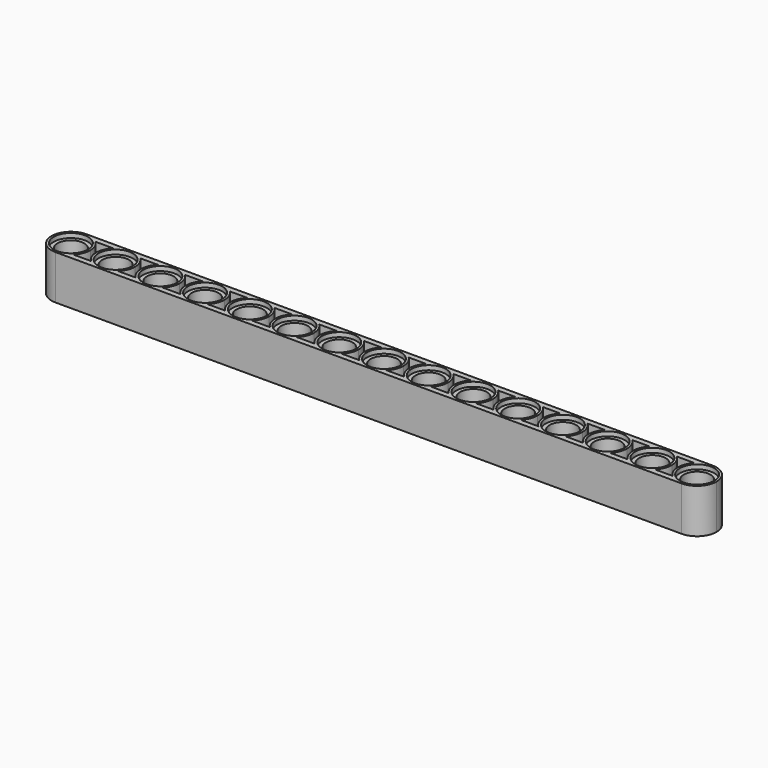
from build123d import *

# Parameters (mm, degrees)
F0_R     = 2.4
F1_DEPTH = 8
F2_R     = 3.1
F2_R_2   = 2.4
F3_DEPTH = 0.8
F4_R     = 3.1
F4_R_2   = 2.4
F5_DEPTH = 0.8
F7_DEPTH = 3.5
F9_DEPTH = 3.5


with BuildPart() as f1:
    # F0 (on Top) → F1 (new body)
    with BuildSketch(Plane.XY):
        with BuildLine():
            Line((88.9163903594, -14.5204573274), (-24.0836096406, -14.5204573274))
            ThreePointArc((-24.0836096406, -14.5204573274), (-26.5584833748, -15.5455835932), (-27.5836096406, -18.0204573274))
            ThreePointArc((-27.5836096406, -18.0204573274), (-26.5584833748, -20.4953310615), (-24.0836096406, -21.5204573274))
            Line((-24.0836096406, -21.5204573274), (-16.0121810692, -21.5204573274))
            Line((-16.0121810692, -21.5204573274), (-7.9407524978, -21.5204573274))
            Line((-7.9407524978, -21.5204573274), (0.1306760736, -21.5204573274))
            Line((0.1306760736, -21.5204573274), (8.202104645, -21.5204573274))
            Line((8.202104645, -21.5204573274), (16.2735332164, -21.5204573274))
            Line((16.2735332164, -21.5204573274), (32.4163903592, -21.5204573274))
            Line((32.4163903592, -21.5204573274), (40.4878189306, -21.5204573274))
            Line((40.4878189306, -21.5204573274), (48.559247502, -21.5204573274))
            Line((48.559247502, -21.5204573274), (56.6306760734, -21.5204573274))
            Line((56.6306760734, -21.5204573274), (64.7021046448, -21.5204573274))
            Line((64.7021046448, -21.5204573274), (72.7735332162, -21.5204573274))
            Line((72.7735332162, -21.5204573274), (80.8449617876, -21.5204573274))
            Line((80.8449617876, -21.5204573274), (88.9163903594, -21.5204573274))
            ThreePointArc((88.9163903594, -21.5204573274), (91.3912640936, -20.4953310615), (92.4163903594, -18.0204573274))
            ThreePointArc((92.4163903594, -18.0204573274), (91.3912640936, -15.5455835932), (88.9163903594, -14.5204573274))
        make_face()
        with Locations((-24.0836096406, -18.0204573274)):
            Circle(F0_R, mode=Mode.SUBTRACT)
        with Locations((-16.0121810692, -18.0204573274)):
            Circle(F0_R, mode=Mode.SUBTRACT)
        with Locations((-7.9407524978, -18.0204573274)):
            Circle(F0_R, mode=Mode.SUBTRACT)
        with Locations((0.1306760736, -18.0204573274)):
            Circle(F0_R, mode=Mode.SUBTRACT)
        with Locations((8.202104645, -18.0204573274)):
            Circle(F0_R, mode=Mode.SUBTRACT)
        with Locations((16.2735332164, -18.0204573274)):
            Circle(F0_R, mode=Mode.SUBTRACT)
        with Locations((24.3449617878, -18.0204573274)):
            Circle(F0_R, mode=Mode.SUBTRACT)
        with Locations((32.4163903592, -18.0204573274)):
            Circle(F0_R, mode=Mode.SUBTRACT)
        with Locations((40.4878189306, -18.0204573274)):
            Circle(F0_R, mode=Mode.SUBTRACT)
        with Locations((48.559247502, -18.0204573274)):
            Circle(F0_R, mode=Mode.SUBTRACT)
        with Locations((56.6306760734, -18.0204573274)):
            Circle(F0_R, mode=Mode.SUBTRACT)
        with Locations((64.7021046448, -18.0204573274)):
            Circle(F0_R, mode=Mode.SUBTRACT)
        with Locations((72.7735332162, -18.0204573274)):
            Circle(F0_R, mode=Mode.SUBTRACT)
        with Locations((80.8449617876, -18.0204573274)):
            Circle(F0_R, mode=Mode.SUBTRACT)
        with Locations((88.916390359, -18.0204573274)):
            Circle(F0_R, mode=Mode.SUBTRACT)
    extrude(amount=F1_DEPTH)

    # F2 (on face) → F3 (cut)
    with BuildSketch(Plane.XY.offset(8)):
        with Locations((88.916390359, -18.0204573274)):
            Circle(F2_R)
        with Locations((88.916390359, -18.0204573274)):
            Circle(F2_R_2, mode=Mode.SUBTRACT)
        with Locations((80.8449617876, -18.0204573274)):
            Circle(F2_R)
        with Locations((80.8449617876, -18.0204573274)):
            Circle(F2_R_2, mode=Mode.SUBTRACT)
        with Locations((72.7735332162, -18.0204573274)):
            Circle(F2_R)
        with Locations((72.7735332162, -18.0204573274)):
            Circle(F2_R_2, mode=Mode.SUBTRACT)
        with Locations((64.7021046448, -18.0204573274)):
            Circle(F2_R)
        with Locations((64.7021046448, -18.0204573274)):
            Circle(F2_R_2, mode=Mode.SUBTRACT)
        with Locations((56.6306760734, -18.0204573274)):
            Circle(F2_R)
        with Locations((56.6306760734, -18.0204573274)):
            Circle(F2_R_2, mode=Mode.SUBTRACT)
        with Locations((48.559247502, -18.0204573274)):
            Circle(F2_R)
        with Locations((48.559247502, -18.0204573274)):
            Circle(F2_R_2, mode=Mode.SUBTRACT)
        with Locations((40.4878189306, -18.0204573274)):
            Circle(F2_R)
        with Locations((40.4878189306, -18.0204573274)):
            Circle(F2_R_2, mode=Mode.SUBTRACT)
        with Locations((32.4163903592, -18.0204573274)):
            Circle(F2_R)
        with Locations((32.4163903592, -18.0204573274)):
            Circle(F2_R_2, mode=Mode.SUBTRACT)
        with Locations((24.3449617878, -18.0204573274)):
            Circle(F2_R)
        with Locations((24.3449617878, -18.0204573274)):
            Circle(F2_R_2, mode=Mode.SUBTRACT)
        with Locations((16.2735332164, -18.0204573274)):
            Circle(F2_R)
        with Locations((16.2735332164, -18.0204573274)):
            Circle(F2_R_2, mode=Mode.SUBTRACT)
        with Locations((8.202104645, -18.0204573274)):
            Circle(F2_R)
        with Locations((8.202104645, -18.0204573274)):
            Circle(F2_R_2, mode=Mode.SUBTRACT)
        with Locations((0.1306760736, -18.0204573274)):
            Circle(F2_R)
        with Locations((0.1306760736, -18.0204573274)):
            Circle(F2_R_2, mode=Mode.SUBTRACT)
        with Locations((-7.9407524978, -18.0204573274)):
            Circle(F2_R)
        with Locations((-7.9407524978, -18.0204573274)):
            Circle(F2_R_2, mode=Mode.SUBTRACT)
        with Locations((-16.0121810692, -18.0204573274)):
            Circle(F2_R)
        with Locations((-16.0121810692, -18.0204573274)):
            Circle(F2_R_2, mode=Mode.SUBTRACT)
        with Locations((-24.0836096406, -18.0204573274)):
            Circle(F2_R)
        with Locations((-24.0836096406, -18.0204573274)):
            Circle(F2_R_2, mode=Mode.SUBTRACT)
    extrude(amount=-F3_DEPTH, mode=Mode.SUBTRACT)

    # F4 (on face) → F5 (cut)
    with BuildSketch(Plane(origin=(0, 0, 0), x_dir=(1, 0, 0), z_dir=(0, 0, -1))):
        with Locations((-24.0836096406, 18.0204573274)):
            Circle(F4_R)
        with Locations((-24.0836096406, 18.0204573274)):
            Circle(F4_R_2, mode=Mode.SUBTRACT)
        with Locations((-16.0121810692, 18.0204573274)):
            Circle(F4_R)
        with Locations((-16.0121810692, 18.0204573274)):
            Circle(F4_R_2, mode=Mode.SUBTRACT)
        with Locations((-7.9407524978, 18.0204573274)):
            Circle(F4_R)
        with Locations((-7.9407524978, 18.0204573274)):
            Circle(F4_R_2, mode=Mode.SUBTRACT)
        with Locations((0.1306760736, 18.0204573274)):
            Circle(F4_R)
        with Locations((0.1306760736, 18.0204573274)):
            Circle(F4_R_2, mode=Mode.SUBTRACT)
        with Locations((8.202104645, 18.0204573274)):
            Circle(F4_R)
        with Locations((8.202104645, 18.0204573274)):
            Circle(F4_R_2, mode=Mode.SUBTRACT)
        with Locations((16.2735332164, 18.0204573274)):
            Circle(F4_R)
        with Locations((16.2735332164, 18.0204573274)):
            Circle(F4_R_2, mode=Mode.SUBTRACT)
        with Locations((24.3449617878, 18.0204573274)):
            Circle(F4_R)
        with Locations((24.3449617878, 18.0204573274)):
            Circle(F4_R_2, mode=Mode.SUBTRACT)
        with Locations((32.4163903592, 18.0204573274)):
            Circle(F4_R)
        with Locations((32.4163903592, 18.0204573274)):
            Circle(F4_R_2, mode=Mode.SUBTRACT)
        with Locations((40.4878189306, 18.0204573274)):
            Circle(F4_R)
        with Locations((40.4878189306, 18.0204573274)):
            Circle(F4_R_2, mode=Mode.SUBTRACT)
        with Locations((48.559247502, 18.0204573274)):
            Circle(F4_R)
        with Locations((48.559247502, 18.0204573274)):
            Circle(F4_R_2, mode=Mode.SUBTRACT)
        with Locations((56.6306760734, 18.0204573274)):
            Circle(F4_R)
        with Locations((56.6306760734, 18.0204573274)):
            Circle(F4_R_2, mode=Mode.SUBTRACT)
        with Locations((64.7021046448, 18.0204573274)):
            Circle(F4_R)
        with Locations((64.7021046448, 18.0204573274)):
            Circle(F4_R_2, mode=Mode.SUBTRACT)
        with Locations((72.7735332162, 18.0204573274)):
            Circle(F4_R)
        with Locations((72.7735332162, 18.0204573274)):
            Circle(F4_R_2, mode=Mode.SUBTRACT)
        with Locations((80.8449617876, 18.0204573274)):
            Circle(F4_R)
        with Locations((80.8449617876, 18.0204573274)):
            Circle(F4_R_2, mode=Mode.SUBTRACT)
        with Locations((88.916390359, 18.0204573274)):
            Circle(F4_R)
        with Locations((88.916390359, 18.0204573274)):
            Circle(F4_R_2, mode=Mode.SUBTRACT)
    extrude(amount=-F5_DEPTH, mode=Mode.SUBTRACT)

    # F6 (on face) → F7 (cut)
    with BuildSketch(Plane(origin=(0, 0, 0), x_dir=(1, 0, 0), z_dir=(0, 0, -1))):
        with BuildLine():
            ThreePointArc((-20.5836096406, 18.0204573274), (-20.9019313253, 16.5620598857), (-21.7989942679, 15.3689421759))
            Line((-21.7989942679, 15.3689421759), (-18.2967964419, 15.3689421759))
            ThreePointArc((-18.2967964419, 15.3689421759), (-19.5121810692, 18.0204573274), (-18.2967964419, 20.6719724789))
            Line((-18.2967964419, 20.6719724789), (-21.7989942679, 20.6719724789))
            ThreePointArc((-21.7989942679, 20.6719724789), (-20.9019313253, 19.478854769), (-20.5836096406, 18.0204573274))
        make_face()
        with BuildLine():
            ThreePointArc((-12.5121810692, 18.0204573274), (-12.8305027539, 16.5620598857), (-13.7275656965, 15.3689421759))
            Line((-13.7275656965, 15.3689421759), (-10.2253678705, 15.3689421759))
            ThreePointArc((-10.2253678705, 15.3689421759), (-11.4407524978, 18.0204573274), (-10.2253678705, 20.6719724789))
            Line((-10.2253678705, 20.6719724789), (-13.7275656965, 20.6719724789))
            ThreePointArc((-13.7275656965, 20.6719724789), (-12.8305027539, 19.478854769), (-12.5121810692, 18.0204573274))
        make_face()
        with BuildLine():
            ThreePointArc((-4.4407524978, 18.0204573274), (-4.7590741825, 16.5620598857), (-5.6561371251, 15.3689421759))
            Line((-5.6561371251, 15.3689421759), (-2.1539392991, 15.3689421759))
            ThreePointArc((-2.1539392991, 15.3689421759), (-3.3693239264, 18.0204573274), (-2.1539392991, 20.6719724789))
            Line((-2.1539392991, 20.6719724789), (-5.6561371251, 20.6719724789))
            ThreePointArc((-5.6561371251, 20.6719724789), (-4.7590741825, 19.478854769), (-4.4407524978, 18.0204573274))
        make_face()
        with BuildLine():
            ThreePointArc((3.6306760736, 18.0204573274), (3.3123543889, 16.5620598857), (2.4152914463, 15.3689421759))
            Line((2.4152914463, 15.3689421759), (5.9174892723, 15.3689421759))
            ThreePointArc((5.9174892723, 15.3689421759), (4.702104645, 18.0204573274), (5.9174892723, 20.6719724789))
            Line((5.9174892723, 20.6719724789), (2.4152914463, 20.6719724789))
            ThreePointArc((2.4152914463, 20.6719724789), (3.3123543889, 19.478854769), (3.6306760736, 18.0204573274))
        make_face()
        with BuildLine():
            ThreePointArc((11.702104645, 18.0204573274), (11.3837829603, 16.5620598857), (10.4867200177, 15.3689421759))
            Line((10.4867200177, 15.3689421759), (13.9889178437, 15.3689421759))
            ThreePointArc((13.9889178437, 15.3689421759), (12.7735332164, 18.0204573274), (13.9889178437, 20.6719724789))
            Line((13.9889178437, 20.6719724789), (10.4867200177, 20.6719724789))
            ThreePointArc((10.4867200177, 20.6719724789), (11.3837829603, 19.478854769), (11.702104645, 18.0204573274))
        make_face()
        with BuildLine():
            ThreePointArc((19.7735332164, 18.0204573274), (19.4552115317, 16.5620598857), (18.5581485891, 15.3689421759))
            Line((18.5581485891, 15.3689421759), (22.0603464151, 15.3689421759))
            ThreePointArc((22.0603464151, 15.3689421759), (20.8449617878, 18.0204573274), (22.0603464151, 20.6719724789))
            Line((22.0603464151, 20.6719724789), (18.5581485891, 20.6719724789))
            ThreePointArc((18.5581485891, 20.6719724789), (19.4552115317, 19.478854769), (19.7735332164, 18.0204573274))
        make_face()
        with BuildLine():
            ThreePointArc((27.8449617878, 18.0204573274), (27.5266401031, 16.5620598857), (26.6295771605, 15.3689421759))
            Line((26.6295771605, 15.3689421759), (30.1317749865, 15.3689421759))
            ThreePointArc((30.1317749865, 15.3689421759), (28.9163903592, 18.0204573274), (30.1317749865, 20.6719724789))
            Line((30.1317749865, 20.6719724789), (26.6295771605, 20.6719724789))
            ThreePointArc((26.6295771605, 20.6719724789), (27.5266401031, 19.478854769), (27.8449617878, 18.0204573274))
        make_face()
        with BuildLine():
            ThreePointArc((35.9163903592, 18.0204573274), (35.5980686745, 16.5620598857), (34.7010057319, 15.3689421759))
            Line((34.7010057319, 15.3689421759), (38.2032035579, 15.3689421759))
            ThreePointArc((38.2032035579, 15.3689421759), (36.9878189306, 18.0204573274), (38.2032035579, 20.6719724789))
            Line((38.2032035579, 20.6719724789), (34.7010057319, 20.6719724789))
            ThreePointArc((34.7010057319, 20.6719724789), (35.5980686745, 19.478854769), (35.9163903592, 18.0204573274))
        make_face()
        with BuildLine():
            ThreePointArc((43.9878189306, 18.0204573274), (43.6694972459, 16.5620598857), (42.7724343033, 15.3689421759))
            Line((42.7724343033, 15.3689421759), (46.2746321293, 15.3689421759))
            ThreePointArc((46.2746321293, 15.3689421759), (45.059247502, 18.0204573274), (46.2746321293, 20.6719724789))
            Line((46.2746321293, 20.6719724789), (42.7724343033, 20.6719724789))
            ThreePointArc((42.7724343033, 20.6719724789), (43.6694972459, 19.478854769), (43.9878189306, 18.0204573274))
        make_face()
        with BuildLine():
            ThreePointArc((52.059247502, 18.0204573274), (51.7409258173, 16.5620598857), (50.8438628747, 15.3689421759))
            Line((50.8438628747, 15.3689421759), (54.3460607007, 15.3689421759))
            ThreePointArc((54.3460607007, 15.3689421759), (53.1306760734, 18.0204573274), (54.3460607007, 20.6719724789))
            Line((54.3460607007, 20.6719724789), (50.8438628747, 20.6719724789))
            ThreePointArc((50.8438628747, 20.6719724789), (51.7409258173, 19.478854769), (52.059247502, 18.0204573274))
        make_face()
        with BuildLine():
            ThreePointArc((60.1306760734, 18.0204573274), (59.8123543887, 16.5620598857), (58.9152914461, 15.3689421759))
            Line((58.9152914461, 15.3689421759), (62.4174892721, 15.3689421759))
            ThreePointArc((62.4174892721, 15.3689421759), (61.2021046448, 18.0204573274), (62.4174892721, 20.6719724789))
            Line((62.4174892721, 20.6719724789), (58.9152914461, 20.6719724789))
            ThreePointArc((58.9152914461, 20.6719724789), (59.8123543887, 19.478854769), (60.1306760734, 18.0204573274))
        make_face()
        with BuildLine():
            ThreePointArc((68.2021046448, 18.0204573274), (67.8837829601, 16.5620598857), (66.9867200175, 15.3689421759))
            Line((66.9867200175, 15.3689421759), (70.4889178435, 15.3689421759))
            ThreePointArc((70.4889178435, 15.3689421759), (69.2735332162, 18.0204573274), (70.4889178435, 20.6719724789))
            Line((70.4889178435, 20.6719724789), (66.9867200175, 20.6719724789))
            ThreePointArc((66.9867200175, 20.6719724789), (67.8837829601, 19.478854769), (68.2021046448, 18.0204573274))
        make_face()
        with BuildLine():
            ThreePointArc((76.2735332162, 18.0204573274), (75.9552115315, 16.5620598857), (75.0581485889, 15.3689421759))
            Line((75.0581485889, 15.3689421759), (78.5603464149, 15.3689421759))
            ThreePointArc((78.5603464149, 15.3689421759), (77.3449617876, 18.0204573274), (78.5603464149, 20.6719724789))
            Line((78.5603464149, 20.6719724789), (75.0581485889, 20.6719724789))
            ThreePointArc((75.0581485889, 20.6719724789), (75.9552115315, 19.478854769), (76.2735332162, 18.0204573274))
        make_face()
        with BuildLine():
            ThreePointArc((84.3449617876, 18.0204573274), (84.0266401029, 16.5620598857), (83.1295771603, 15.3689421759))
            Line((83.1295771603, 15.3689421759), (86.6317749863, 15.3689421759))
            ThreePointArc((86.6317749863, 15.3689421759), (85.416390359, 18.0204573274), (86.6317749863, 20.6719724789))
            Line((86.6317749863, 20.6719724789), (83.1295771603, 20.6719724789))
            ThreePointArc((83.1295771603, 20.6719724789), (84.0266401029, 19.478854769), (84.3449617876, 18.0204573274))
        make_face()
    extrude(amount=-F7_DEPTH, mode=Mode.SUBTRACT)

    # F8 (on face) → F9 (cut)
    with BuildSketch(Plane.XY.offset(8)):
        with BuildLine():
            ThreePointArc((-20.5836096406, -18.0204573274), (-20.8569074464, -19.3763308282), (-21.6341198978, -20.5204573274))
            Line((-21.6341198978, -20.5204573274), (-18.461670812, -20.5204573274))
            ThreePointArc((-18.461670812, -20.5204573274), (-19.5121810692, -18.0204573274), (-18.461670812, -15.5204573274))
            Line((-18.461670812, -15.5204573274), (-21.6341198978, -15.5204573274))
            ThreePointArc((-21.6341198978, -15.5204573274), (-20.8569074464, -16.6645838266), (-20.5836096406, -18.0204573274))
        make_face()
        with BuildLine():
            ThreePointArc((-12.5121810692, -18.0204573274), (-12.785478875, -19.3763308282), (-13.5626913264, -20.5204573274))
            Line((-13.5626913264, -20.5204573274), (-10.3902422406, -20.5204573274))
            ThreePointArc((-10.3902422406, -20.5204573274), (-11.4407524978, -18.0204573274), (-10.3902422406, -15.5204573274))
            Line((-10.3902422406, -15.5204573274), (-13.5626913264, -15.5204573274))
            ThreePointArc((-13.5626913264, -15.5204573274), (-12.785478875, -16.6645838266), (-12.5121810692, -18.0204573274))
        make_face()
        with BuildLine():
            ThreePointArc((-4.4407524978, -18.0204573274), (-4.7140503036, -19.3763308282), (-5.491262755, -20.5204573274))
            Line((-5.491262755, -20.5204573274), (-2.3188136692, -20.5204573274))
            ThreePointArc((-2.3188136692, -20.5204573274), (-3.3693239264, -18.0204573274), (-2.3188136692, -15.5204573274))
            Line((-2.3188136692, -15.5204573274), (-5.491262755, -15.5204573274))
            ThreePointArc((-5.491262755, -15.5204573274), (-4.7140503036, -16.6645838266), (-4.4407524978, -18.0204573274))
        make_face()
        with BuildLine():
            ThreePointArc((3.6306760736, -18.0204573274), (3.3573782678, -19.3763308282), (2.5801658164, -20.5204573274))
            Line((2.5801658164, -20.5204573274), (5.7526149022, -20.5204573274))
            ThreePointArc((5.7526149022, -20.5204573274), (4.702104645, -18.0204573274), (5.7526149022, -15.5204573274))
            Line((5.7526149022, -15.5204573274), (2.5801658164, -15.5204573274))
            ThreePointArc((2.5801658164, -15.5204573274), (3.3573782678, -16.6645838266), (3.6306760736, -18.0204573274))
        make_face()
        with BuildLine():
            ThreePointArc((11.702104645, -18.0204573274), (11.4288068392, -19.3763308282), (10.6515943878, -20.5204573274))
            Line((10.6515943878, -20.5204573274), (13.8240434736, -20.5204573274))
            ThreePointArc((13.8240434736, -20.5204573274), (12.7735332164, -18.0204573274), (13.8240434736, -15.5204573274))
            Line((13.8240434736, -15.5204573274), (10.6515943878, -15.5204573274))
            ThreePointArc((10.6515943878, -15.5204573274), (11.4288068392, -16.6645838266), (11.702104645, -18.0204573274))
        make_face()
        with BuildLine():
            ThreePointArc((19.7735332164, -18.0204573274), (19.5002354106, -19.3763308282), (18.7230229592, -20.5204573274))
            Line((18.7230229592, -20.5204573274), (21.895472045, -20.5204573274))
            ThreePointArc((21.895472045, -20.5204573274), (20.8449617878, -18.0204573274), (21.895472045, -15.5204573274))
            Line((21.895472045, -15.5204573274), (18.7230229592, -15.5204573274))
            ThreePointArc((18.7230229592, -15.5204573274), (19.5002354106, -16.6645838266), (19.7735332164, -18.0204573274))
        make_face()
        with BuildLine():
            ThreePointArc((27.8449617878, -18.0204573274), (27.571663982, -19.3763308282), (26.7944515306, -20.5204573274))
            Line((26.7944515306, -20.5204573274), (29.9669006164, -20.5204573274))
            ThreePointArc((29.9669006164, -20.5204573274), (28.9163903592, -18.0204573274), (29.9669006164, -15.5204573274))
            Line((29.9669006164, -15.5204573274), (26.7944515306, -15.5204573274))
            ThreePointArc((26.7944515306, -15.5204573274), (27.571663982, -16.6645838266), (27.8449617878, -18.0204573274))
        make_face()
        with BuildLine():
            ThreePointArc((35.9163903592, -18.0204573274), (35.6430925534, -19.3763308282), (34.865880102, -20.5204573274))
            Line((34.865880102, -20.5204573274), (38.0383291878, -20.5204573274))
            ThreePointArc((38.0383291878, -20.5204573274), (36.9878189306, -18.0204573274), (38.0383291878, -15.5204573274))
            Line((38.0383291878, -15.5204573274), (34.865880102, -15.5204573274))
            ThreePointArc((34.865880102, -15.5204573274), (35.6430925534, -16.6645838266), (35.9163903592, -18.0204573274))
        make_face()
        with BuildLine():
            ThreePointArc((43.9878189306, -18.0204573274), (43.7145211248, -19.3763308282), (42.9373086734, -20.5204573274))
            Line((42.9373086734, -20.5204573274), (46.1097577592, -20.5204573274))
            ThreePointArc((46.1097577592, -20.5204573274), (45.059247502, -18.0204573274), (46.1097577592, -15.5204573274))
            Line((46.1097577592, -15.5204573274), (42.9373086734, -15.5204573274))
            ThreePointArc((42.9373086734, -15.5204573274), (43.7145211248, -16.6645838266), (43.9878189306, -18.0204573274))
        make_face()
        with BuildLine():
            ThreePointArc((52.059247502, -18.0204573274), (51.7859496962, -19.3763308282), (51.0087372448, -20.5204573274))
            Line((51.0087372448, -20.5204573274), (54.1811863306, -20.5204573274))
            ThreePointArc((54.1811863306, -20.5204573274), (53.1306760734, -18.0204573274), (54.1811863306, -15.5204573274))
            Line((54.1811863306, -15.5204573274), (51.0087372448, -15.5204573274))
            ThreePointArc((51.0087372448, -15.5204573274), (51.7859496962, -16.6645838266), (52.059247502, -18.0204573274))
        make_face()
        with BuildLine():
            ThreePointArc((60.1306760734, -18.0204573274), (59.8573782676, -19.3763308282), (59.0801658162, -20.5204573274))
            Line((59.0801658162, -20.5204573274), (62.252614902, -20.5204573274))
            ThreePointArc((62.252614902, -20.5204573274), (61.2021046448, -18.0204573274), (62.252614902, -15.5204573274))
            Line((62.252614902, -15.5204573274), (59.0801658162, -15.5204573274))
            ThreePointArc((59.0801658162, -15.5204573274), (59.8573782676, -16.6645838266), (60.1306760734, -18.0204573274))
        make_face()
        with BuildLine():
            ThreePointArc((68.2021046448, -18.0204573274), (67.928806839, -19.3763308282), (67.1515943876, -20.5204573274))
            Line((67.1515943876, -20.5204573274), (70.3240434734, -20.5204573274))
            ThreePointArc((70.3240434734, -20.5204573274), (69.2735332162, -18.0204573274), (70.3240434734, -15.5204573274))
            Line((70.3240434734, -15.5204573274), (67.1515943876, -15.5204573274))
            ThreePointArc((67.1515943876, -15.5204573274), (67.928806839, -16.6645838266), (68.2021046448, -18.0204573274))
        make_face()
        with BuildLine():
            ThreePointArc((76.2735332162, -18.0204573274), (76.0002354104, -19.3763308282), (75.223022959, -20.5204573274))
            Line((75.223022959, -20.5204573274), (78.3954720448, -20.5204573274))
            ThreePointArc((78.3954720448, -20.5204573274), (77.3449617876, -18.0204573274), (78.3954720448, -15.5204573274))
            Line((78.3954720448, -15.5204573274), (75.223022959, -15.5204573274))
            ThreePointArc((75.223022959, -15.5204573274), (76.0002354104, -16.6645838266), (76.2735332162, -18.0204573274))
        make_face()
        with BuildLine():
            ThreePointArc((84.3449617876, -18.0204573274), (84.0716639818, -19.3763308282), (83.2944515304, -20.5204573274))
            Line((83.2944515304, -20.5204573274), (86.4669006162, -20.5204573274))
            ThreePointArc((86.4669006162, -20.5204573274), (85.416390359, -18.0204573274), (86.4669006162, -15.5204573274))
            Line((86.4669006162, -15.5204573274), (83.2944515304, -15.5204573274))
            ThreePointArc((83.2944515304, -15.5204573274), (84.0716639818, -16.6645838266), (84.3449617876, -18.0204573274))
        make_face()
    extrude(amount=-F9_DEPTH, mode=Mode.SUBTRACT)


solid = f1.part
